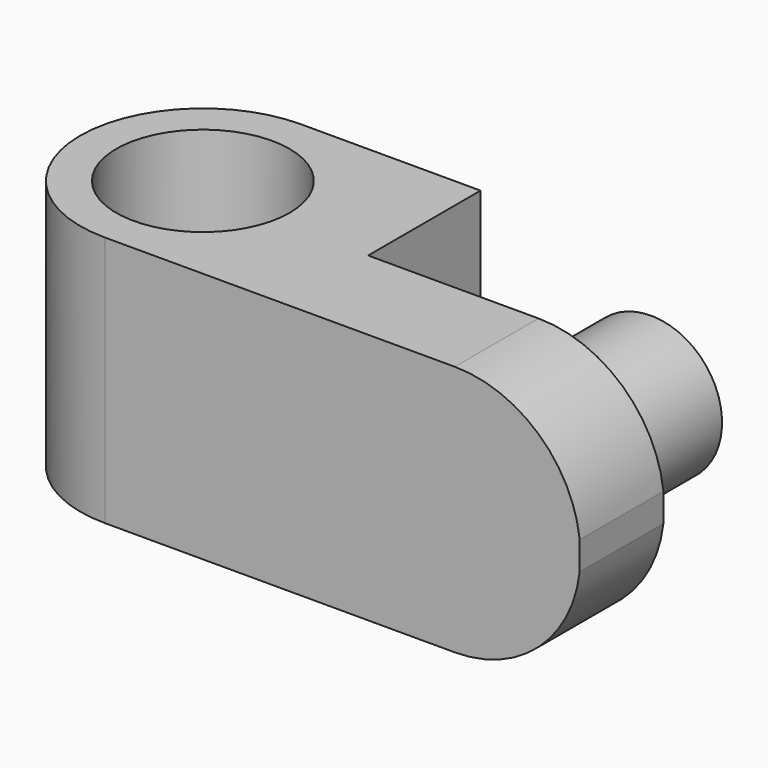
from build123d import *

# Parameters (mm, degrees)
SKETCH_R     = 2.413
PAD_DEPTH    = 3
SKETCH001_R  = 2.413
PAD001_DEPTH = 7
POCKET_DEPTH = 5
SKETCH003_R  = 1.98
PAD002_DEPTH = 3.913


with BuildPart() as old_bushing:
    # Sketch → Pad (new body)
    with BuildSketch(Plane.XY):
        with BuildLine():
            ThreePointArc((0, 3.413), (-3.413, 0), (0, -3.413))
            Line((0, -3.413), (5.826, -3.413))
            ThreePointArc((5.826, -3.413), (9.239, 0), (5.826, 3.413))
            Line((0, 3.413), (5.826, 3.413))
        make_face()
        Circle(SKETCH_R, mode=Mode.SUBTRACT)
        with Locations((5.826, 0)):
            Circle(SKETCH_R, mode=Mode.SUBTRACT)
    extrude(amount=PAD_DEPTH)


with BuildPart() as body001:
    # Sketch001 → Pad001 (new body)
    with BuildSketch(Plane.XY):
        with BuildLine():
            ThreePointArc((0, 3.413), (-3.413, 0), (0, -3.413))
            Line((0, -3.413), (13.220365, -3.413))
            Line((13.220365, -0.5), (13.220365, -3.413))
            Line((5, -0.5), (13.220365, -0.5))
            Line((5, 3.413), (5, -0.5))
            Line((0, 3.413), (5, 3.413))
        make_face()
        Circle(SKETCH001_R, mode=Mode.SUBTRACT)
    extrude(amount=PAD001_DEPTH)

    # Sketch002 (on Face5 of Pad001) → Pocket (cut)
    with BuildSketch(Plane(origin=(0, -0.5, 0), x_dir=(-1, 0, 0), z_dir=(0, 1, 0))):
        with BuildLine():
            ThreePointArc((-9.742675, 7), (-13.242675, 3.5), (-9.742675, 0))
            Line((-14.166568, 0), (-9.742675, 0))
            Line((-14.166568, 7), (-14.166568, 0))
            Line((-9.742675, 7), (-14.166568, 7))
        make_face()
    extrude(amount=-POCKET_DEPTH, mode=Mode.SUBTRACT)

    # Sketch003 (on Face5 of Pad001) → Pad002 (join)
    with BuildSketch(Plane(origin=(0, -0.5, 0), x_dir=(-1, 0, 0), z_dir=(0, 1, 0))):
        with Locations((-9.742675, 3.5)):
            Circle(SKETCH003_R)
    extrude(amount=PAD002_DEPTH)


solid = Compound([old_bushing.part, body001.part])
